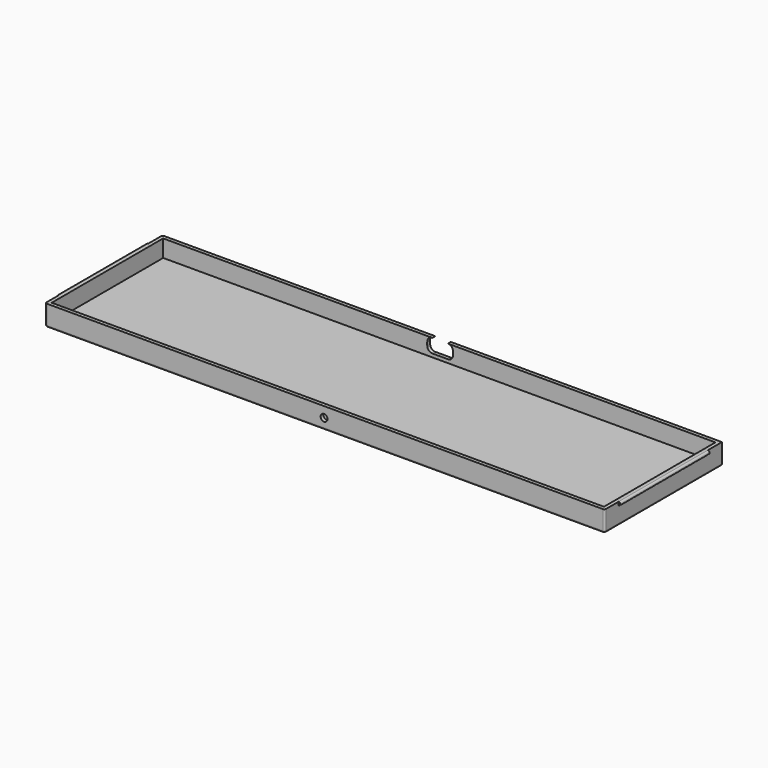
from build123d import *

# Parameters (mm, degrees)
CYLINDER_R         = 2
CYLINDER_DEPTH     = 10
BOX002_W           = 15
BOX002_H           = 10
BOX002_DEPTH       = 8
FILLET003_R        = 3
TONGUE_LEFT_R      = 1
TONGUE_LEFT_DEPTH  = 64.8
TONGUE_RIGHT_R     = 1
TONGUE_RIGHT_DEPTH = 64.8
CASE_INSIDE_W      = 321
CASE_INSIDE_H      = 81
CASE_INSIDE_DEPTH  = 10
CASE_OUTSIDE_W     = 325.2
CASE_OUTSIDE_H     = 85.2
CASE_OUTSIDE_DEPTH = 12.1
FILLET_R           = 1


with BuildPart() as cylinder:
    # Cylinder → Cylinder (new body)
    with BuildSketch(Plane(origin=(160, 0, 4), x_dir=(1, 0, 0), z_dir=(0, -1, 0))):
        Circle(CYLINDER_R)
    extrude(amount=CYLINDER_DEPTH)


with BuildPart() as fillet003:
    # Box002 → Box002 (new body)
    with BuildSketch(Plane(origin=(153.5, 80, 2), x_dir=(1, 0, 0), z_dir=(0, 0, 1))):
        with Locations((7.5, 5)):
            Rectangle(BOX002_W, BOX002_H)
    extrude(amount=BOX002_DEPTH)

    # Fillet003
    fillet003_edges = [fillet003.edges().sort_by_distance(p)[0] for p in [
        (153.5, 85, 10),
        (153.5, 85, 2),
        (168.5, 85, 10),
        (168.5, 85, 2),
    ]]
    fillet(fillet003_edges, radius=FILLET003_R)


with BuildPart() as tongue_left:
    # tongue_left → tongue_left (new body)
    with BuildSketch(Plane(origin=(-2.1, 8.1, 9), x_dir=(1, 0, 0), z_dir=(0, 1, 0))):
        Circle(TONGUE_LEFT_R)
    extrude(amount=TONGUE_LEFT_DEPTH)


with BuildPart() as tongue_right:
    # tongue_right → tongue_right (new body)
    with BuildSketch(Plane(origin=(323.1, 8.1, 9), x_dir=(1, 0, 0), z_dir=(0, 1, 0))):
        Circle(TONGUE_RIGHT_R)
    extrude(amount=TONGUE_RIGHT_DEPTH)


with BuildPart() as case_inside:
    # case_inside → case_inside (new body)
    with BuildSketch(Plane.XY):
        with Locations((160.5, 40.5)):
            Rectangle(CASE_INSIDE_W, CASE_INSIDE_H)
    extrude(amount=CASE_INSIDE_DEPTH)


with BuildPart() as case002:
    # case_outside → case_outside (new body)
    with BuildSketch(Plane(origin=(-2.1, -2.1, -2.1), x_dir=(1, 0, 0), z_dir=(0, 0, 1))):
        with Locations((162.6, 42.6)):
            Rectangle(CASE_OUTSIDE_W, CASE_OUTSIDE_H)
    extrude(amount=CASE_OUTSIDE_DEPTH)

    # Cut: cut case_inside
    add(case_inside.part, mode=Mode.SUBTRACT)

    # Fusion: union tongue_left, tongue_right
    add(tongue_left.part)
    add(tongue_right.part)

    # Fillet
    fillet_edges = [case002.edges().sort_by_distance(p)[0] for p in [
        (-2.1, 83.1, 3.95),
        (-2.1, 40.5, -2.1),
        (-2.1, -2.1, 3.95),
        (160.5, 83.1, -2.1),
        (160.5, -2.1, -2.1),
        (323.1, -2.1, 3.95),
        (323.1, 40.5, -2.1),
    ]]
    fillet(fillet_edges, radius=FILLET_R)

    # Cut005: cut Fillet003
    add(fillet003.part, mode=Mode.SUBTRACT)

    # Cut006: cut Cylinder
    add(cylinder.part, mode=Mode.SUBTRACT)


solid = case002.part
